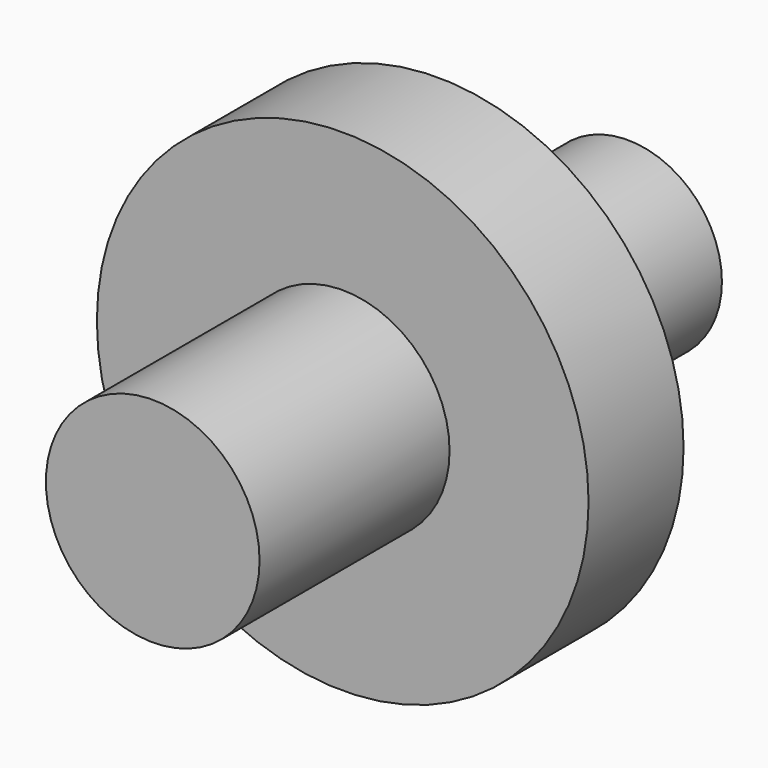
from build123d import *

# Parameters (mm, degrees)
F0_R     = 47.600257
F1_DEPTH = 120
F2_R     = 28.82737
F3_DEPTH = 120.001
F4_R     = 124.230841
F4_R_2   = 28.82737
F5_DEPTH = 60
F8_R     = 53.98765
F9_DEPTH = 120


with BuildPart() as f1:
    # F0 (on Front) → F1 (new body)
    with BuildSketch(Plane.XZ):
        Circle(F0_R)
    extrude(amount=F1_DEPTH)

    # F2 (on face) → F3 (cut, through all)
    with BuildSketch(Plane.XZ.offset(120)):
        Circle(F2_R)
    extrude(amount=-F3_DEPTH, mode=Mode.SUBTRACT)

    # F2 (on face) + F4 (on face) → F5 (join)
    with BuildSketch(Plane.XZ.offset(120)):
        Circle(F2_R)
    with BuildSketch(Plane.XZ.offset(120)):
        Circle(F4_R)
        Circle(F4_R_2, mode=Mode.SUBTRACT)
    extrude(amount=F5_DEPTH)

    # F8 (on face) → F9 (join)
    with BuildSketch(Plane.XZ.offset(180)):
        Circle(F8_R)
    extrude(amount=F9_DEPTH)


solid = f1.part
